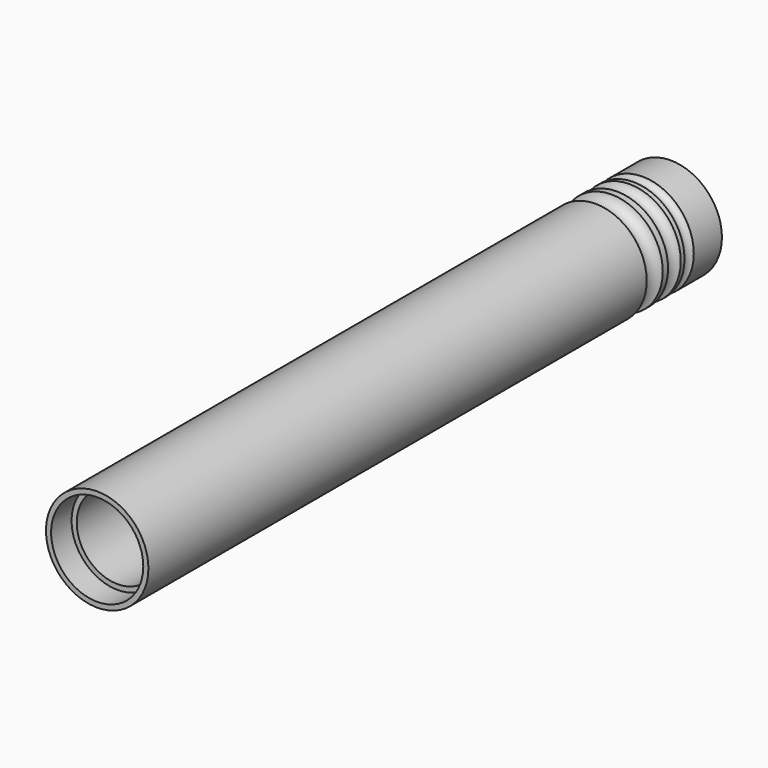
from build123d import *

# Parameters (mm, degrees)
F0_R     = 25
F0_R_2   = 20
F1_DEPTH = 350
F2_R     = 22.5
F2_R_2   = 20
F3_DEPTH = 12.5
F4_R     = 22.5
F4_R_2   = 20
F5_DEPTH = 12.5
F6_R     = 3
F6_R_2   = 4
F6_R_3   = 5


with BuildPart() as f1:
    # F0 (on Front) → F1 (new body)
    with BuildSketch(Plane.XZ):
        Circle(F0_R)
        Circle(F0_R_2, mode=Mode.SUBTRACT)
    extrude(amount=F1_DEPTH)

    # F2 (on face) → F3 (cut)
    with BuildSketch(Plane.XZ.offset(350)):
        Circle(F2_R)
        Circle(F2_R_2, mode=Mode.SUBTRACT)
    extrude(amount=-F3_DEPTH, mode=Mode.SUBTRACT)

    # F4 (on face) → F5 (cut)
    with BuildSketch(Plane(origin=(0, 0, 0), x_dir=(-1, 0, 0), z_dir=(0, 1, 0))):
        Circle(F4_R)
        Circle(F4_R_2, mode=Mode.SUBTRACT)
    extrude(amount=-F5_DEPTH, mode=Mode.SUBTRACT)

    # F6 (on Right) → F7 (revolve, cut)
    with BuildSketch(Plane.YZ):
        with Locations((-20, 26)):
            Circle(F6_R)
        with Locations((-29, 26)):
            Circle(F6_R_2)
        with Locations((-41, 26)):
            Circle(F6_R_3)
    revolve(axis=Axis((0, 0, 0), (0, 1, 0)), mode=Mode.SUBTRACT)


solid = f1.part
